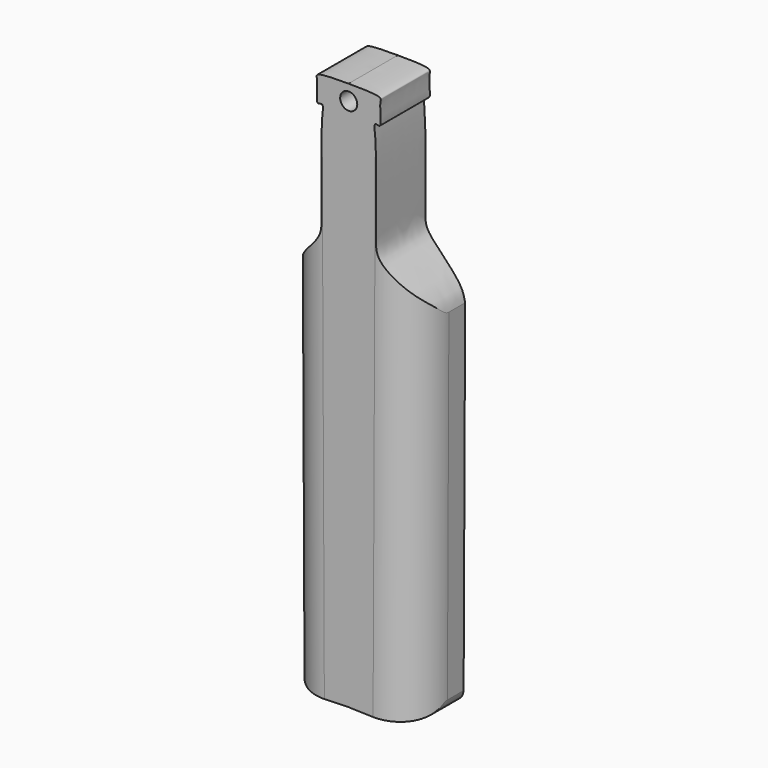
from build123d import *

# Parameters (mm, degrees)
F1_DEPTH = 4.572
F2_R     = 0.635
F3_DEPTH = 41.9608
F4_R     = 3.0660512242


with BuildPart() as f1:
    # F0 (on Front) → F1 (new body)
    with BuildSketch(Plane.XZ):
        with BuildLine():
            Line((26.7901708476, -4.8644637366), (26.9019385814, -30.2642178294))
            add(Edge.make_bspline(
                [(26.9019385814, -30.2642178294), (26.9384527432, -30.4751764994), (27.0358940447, -31.0381385479), (29.0159832128, -31.1908845954), (30.7817331576, -31.1241672108), (31.7821204662, -31.0863684132)],
                knots=[0, 0, 0, 0, 0.2062041595, 0.5502742125, 1, 1, 1, 1], degree=3))
            add(Edge.make_bspline(
                [(36.6623023511, -30.2642178294), (36.6257881892, -30.4751764994), (36.5283468878, -31.0381385479), (34.5482577196, -31.1908845954), (32.7825077748, -31.1241672108), (31.7821204662, -31.0863684132)],
                knots=[0, 0, 0, 0, 0.2062041595, 0.5502742125, 1, 1, 1, 1], degree=3))
            Line((36.6623023511, -30.2642178294), (36.7740700849, -4.8644637366))
            add(Edge.make_bspline(
                [(36.7740700849, -4.8644637366), (36.7189478547, -4.5739981562), (36.5800125386, -3.8418810576), (35.0474724471, -2.2101557218), (33.7611271924, -0.9191716813), (33.8445484803, 0.4167730638), (33.8029339925, 2.8964171169), (33.8546681833, 6.4967790083), (33.6287587118, 7.7255992879), (33.9020075526, 7.7125070563), (34.2864249894, 7.5633916931), (33.9969245542, 9.1283666784), (34.417628171, 9.752950588), (31.8435673036, 9.667862763), (31.7896670683, 9.6997904454), (31.7821204662, 9.704260658)],
                knots=[0, 0, 0, 0, 0.0709841192, 0.1789151312, 0.274573348, 0.3526705822, 0.4679128773, 0.6087436889, 0.6793783724, 0.7085307305, 0.7414451398, 0.8263659124, 0.8749750817, 0.9824951914, 1, 1, 1, 1], degree=3))
            add(Edge.make_bspline(
                [(26.7901708476, -4.8644637366), (26.8452930777, -4.5739981562), (26.9842283938, -3.8418810576), (28.5167684853, -2.2101557218), (29.80311374, -0.9191716813), (29.7196924521, 0.4167730638), (29.7613069399, 2.8964171169), (29.7095727492, 6.4967790083), (29.9354822207, 7.7255992879), (29.6622333799, 7.7125070563), (29.2778159431, 7.5633916931), (29.5673163782, 9.1283666784), (29.1466127615, 9.752950588), (31.7206736288, 9.667862763), (31.7745738642, 9.6997904454), (31.7821204662, 9.704260658)],
                knots=[0, 0, 0, 0, 0.0709841192, 0.1789151312, 0.274573348, 0.3526705822, 0.4679128773, 0.6087436889, 0.6793783724, 0.7085307305, 0.7414451398, 0.8263659124, 0.8749750817, 0.9824951914, 1, 1, 1, 1], degree=3))
        make_face()
    extrude(amount=F1_DEPTH)

    # F2 (on face) → F3 (cut)
    with BuildSketch(Plane.XZ.offset(4.572)):
        with Locations((31.7821204662, 8.5549756579)):
            Circle(F2_R)
    extrude(amount=-F3_DEPTH, mode=Mode.SUBTRACT)

    # F4
    f4_edges = [f1.edges().sort_by_distance(p)[0] for p in [
        (36.718186, -4.572, -17.564341),
        (26.846055, -4.572, -17.564341),
    ]]
    fillet(f4_edges, radius=F4_R)


solid = f1.part
